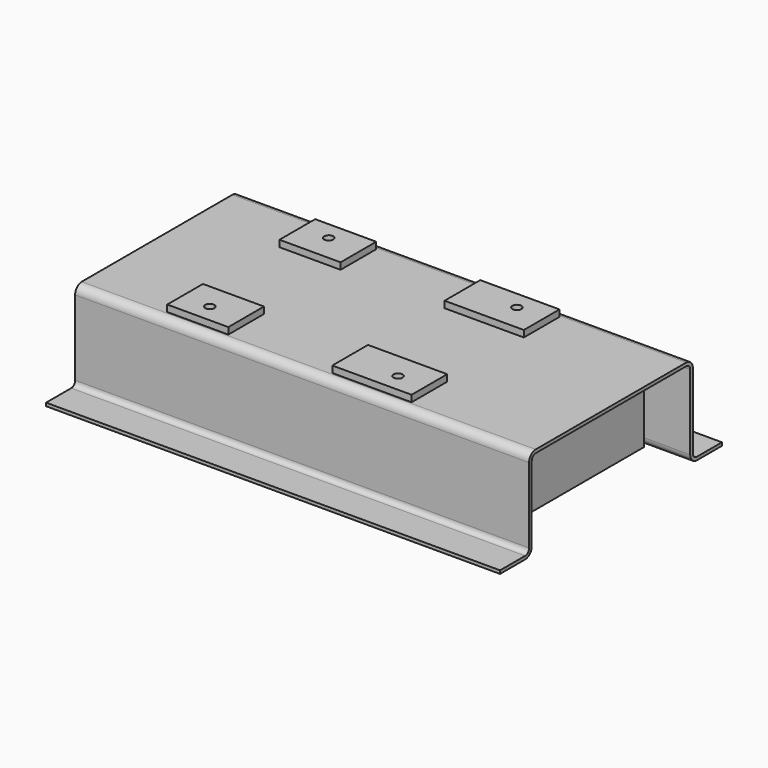
from build123d import *

# Parameters (mm, degrees)
F1_DEPTH = 873.125
F2_W     = 12.7
F2_H     = 762
F3_DEPTH = 339.400452
F4_W     = 234.95
F4_H     = 171.45
F4_R     = 17.4625
F4_W_2   = 304.8
F5_DEPTH = 25.4


with BuildPart() as f1:
    # F0 (on Right) → F1 (new body, symmetric)
    with BuildSketch(Plane.YZ):
        with BuildLine():
            Line((0, 339.852), (0, 352.552))
            Line((0, 352.552), (-361.95, 352.552))
            ThreePointArc((-361.95, 352.552), (-384.40064, 343.25264), (-393.7, 320.802))
            Line((-393.7, 320.802), (-393.7, 31.75))
            ThreePointArc((-393.7, 31.75), (-399.279616, 18.279616), (-412.75, 12.7))
            Line((-412.75, 12.7), (-516.630888, 12.7))
            Line((-516.630888, 12.7), (-520.7, 12.7))
            Line((-520.7, 12.7), (-533.4, 12.7))
            Line((-533.4, 12.7), (-533.4, 0.451548))
            Line((-533.4, 0.451548), (-412.75, 0.451548))
            ThreePointArc((-412.75, 0.451548), (-390.29936, 9.750908), (-381, 32.201548))
            Line((-381, 32.201548), (-381, 320.802))
            ThreePointArc((-381, 320.802), (-375.420384, 334.272384), (-361.95, 339.852))
            Line((-361.95, 339.852), (0, 339.852))
        make_face()
        with BuildLine():
            Line((361.95, 352.552), (0, 352.552))
            Line((0, 352.552), (0, 339.852))
            Line((0, 339.852), (361.95, 339.852))
            ThreePointArc((361.95, 339.852), (375.420384, 334.272384), (381, 320.802))
            Line((381, 320.802), (381, 32.201548))
            ThreePointArc((381, 32.201548), (390.29936, 9.750908), (412.75, 0.451548))
            Line((412.75, 0.451548), (533.4, 0.451548))
            Line((533.4, 0.451548), (533.4, 12.7))
            Line((533.4, 12.7), (520.7, 12.7))
            Line((520.7, 12.7), (516.630888, 12.7))
            Line((516.630888, 12.7), (412.75, 12.7))
            ThreePointArc((412.75, 12.7), (399.279616, 18.279616), (393.7, 31.75))
            Line((393.7, 31.75), (393.7, 320.802))
            ThreePointArc((393.7, 320.802), (384.40064, 343.25264), (361.95, 352.552))
        make_face()
    extrude(amount=F1_DEPTH, both=True)

    # F2 (on face) → F3 (join, through all)
    with BuildSketch(Plane(origin=(0, 0, 339.852), x_dir=(1, 0, 0), z_dir=(0, 0, -1))):
        with Locations((688.975, 0)):
            Rectangle(F2_W, F2_H)
    extrude(amount=F3_DEPTH)

    # F4 (on face) → F5 (join)
    with BuildSketch(Plane.XY.offset(352.552)):
        with Locations((-431.8, 269.875)):
            Rectangle(F4_W, F4_H)
        with Locations((-441.325, 285.75)):
            Circle(F4_R, mode=Mode.SUBTRACT)
        with Locations((238.125, 269.875)):
            Rectangle(F4_W_2, F4_H)
        with Locations((282.575, 285.75)):
            Circle(F4_R, mode=Mode.SUBTRACT)
        with Locations((238.125, -269.875)):
            Rectangle(F4_W_2, F4_H)
        with Locations((282.575, -285.75)):
            Circle(F4_R, mode=Mode.SUBTRACT)
        with Locations((-431.8, -269.875)):
            Rectangle(F4_W, F4_H)
        with Locations((-441.325, -285.75)):
            Circle(F4_R, mode=Mode.SUBTRACT)
    extrude(amount=F5_DEPTH)


solid = f1.part
